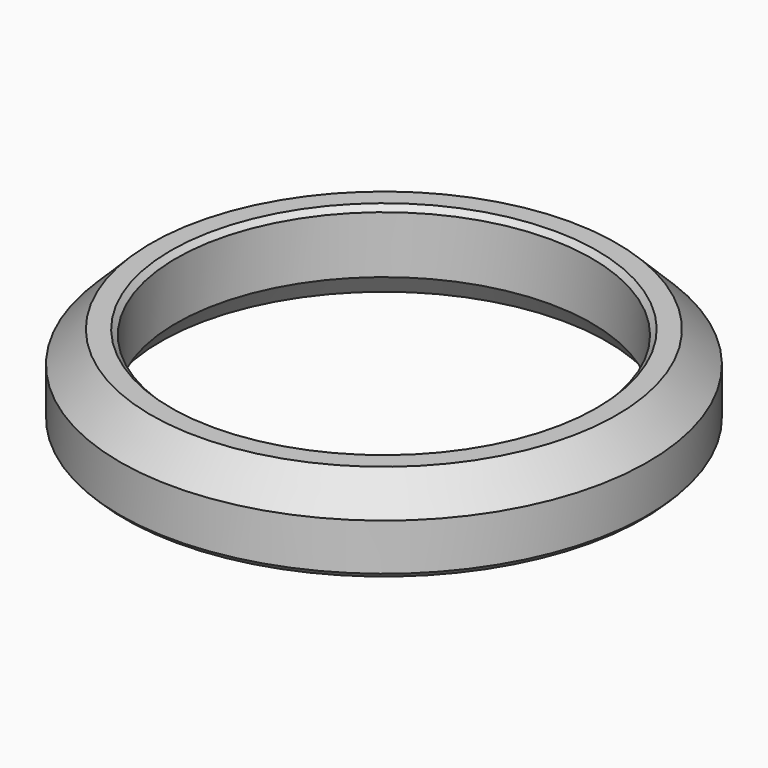
from build123d import *

# Parameters (mm, degrees)
F2_SIZE = 0.5
F3_SIZE = 0.5


with BuildPart() as f1:
    # F0 (on Right) → F1 (revolve)
    with BuildSketch(Plane.YZ):
        Polygon((25.4, 5), (22.4, 8), (20, 8), (20, 2), (21.453085, 0), (25.4, 0), align=None)
    revolve(axis=Axis((0, 0, 20.029662), (0, 0, 1)))

    # F2
    f2_edges = [f1.edges().sort_by_distance(p)[0] for p in [
        (0, -25.4, 0),
    ]]
    chamfer(f2_edges, length=F2_SIZE)

    # F3
    f3_edges = [f1.edges().sort_by_distance(p)[0] for p in [
        (0, -20, 8),
    ]]
    chamfer(f3_edges, length=F3_SIZE)


solid = f1.part
